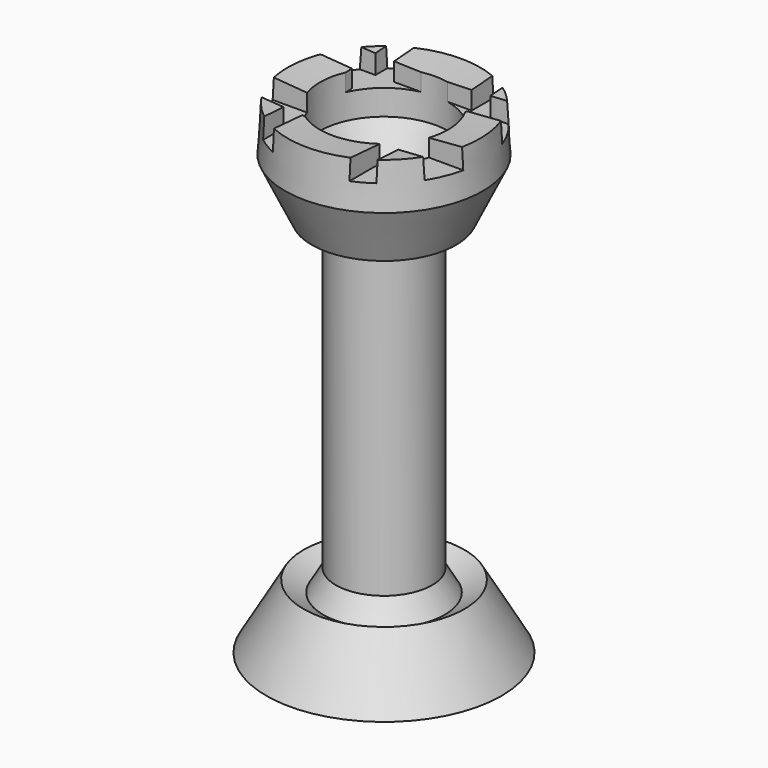
from build123d import *

# Parameters (mm, degrees)
F3_W     = 1.9652401097
F3_H     = 6.7379688844
F3_H_2   = 3.0882351566
F3_W_2   = 7.2994669899
F3_W_3   = 8.1417094916
F3_H_3   = 5.6149733718
F3_W_4   = 1.9652461633
F3_H_4   = 3.6497339606
F3_H_5   = 3.3689839765
F3_W_5   = 6.1764698476
F3_W_6   = 8.4224580787
F3_H_6   = 9.8262038082
F3_H_7   = 8.9839585125
F3_W_7   = 7.2994637303
F4_DEPTH = 3


with BuildPart() as f1:
    # F0 (on Front) → F1 (revolve)
    with BuildSketch(Plane.XZ):
        Polygon((-12.3529406264, -16.7045462877), (0, -16.9852953404), (0, 25.6885029376), (-4.772728309, 25.6885029376), (-6.7379684187, 29.3382368982), (-6.7379684187, 33.8302142918), (-10.1069519296, 34.1109633446), (-10.3877000511, 29.3382368982), (-7.5802141801, 23.4425142407), (-5.0534764305, 23.4425142407), (-5.0534764305, -8.8435830548), (-6.3861594392, -11.1454892843), (-8.4445920708, -9.9537647225), align=None)
    revolve(axis=Axis((0, 0, 4.3516037986), (0, 0, 1)))

    # F3 (on offset) → F4 (cut)
    with BuildSketch(Plane.XY.offset(35)):
        with Locations((-5.193850724, 9.9665778689)):
            Rectangle(F3_W, F3_H)
        with Locations((-5.193850724, 5.0534758484)):
            Rectangle(F3_W, F3_H_2)
        with Locations((-9.8262042738, 5.0534758484)):
            Rectangle(F3_W_2, F3_H_2)
        with Locations((-0.1403759234, 5.0534758484)):
            Rectangle(F3_W_3, F3_H_2)
        with Locations((-5.193850724, 0.7018715842)):
            Rectangle(F3_W, F3_H_3)
        with Locations((4.9131019041, 5.0534758484)):
            Rectangle(F3_W_4, F3_H_2)
        with Locations((4.9131019041, 8.422460407)):
            Rectangle(F3_W_4, F3_H_4)
        with Locations((-5.193850724, -3.79010709)):
            Rectangle(F3_W, F3_H_5)
        with Locations((-9.2647057027, -3.79010709)):
            Rectangle(F3_W_5, F3_H_5)
        with Locations((-0.1403759234, -3.79010709)):
            Rectangle(F3_W_3, F3_H_5)
        with Locations((4.9131019041, 0.7018715842)):
            Rectangle(F3_W_4, F3_H_3)
        with Locations((10.1069540251, 5.0534758484)):
            Rectangle(F3_W_6, F3_H_2)
        with Locations((-5.193850724, -10.3877009824)):
            Rectangle(F3_W, F3_H_6)
        with Locations((4.9131019041, -3.79010709)):
            Rectangle(F3_W_4, F3_H_5)
        with Locations((4.9131019041, -9.9665783346)):
            Rectangle(F3_W_4, F3_H_7)
        with Locations((9.5454568509, -3.79010709)):
            Rectangle(F3_W_7, F3_H_5)
    extrude(amount=-F4_DEPTH, mode=Mode.SUBTRACT)


solid = f1.part
